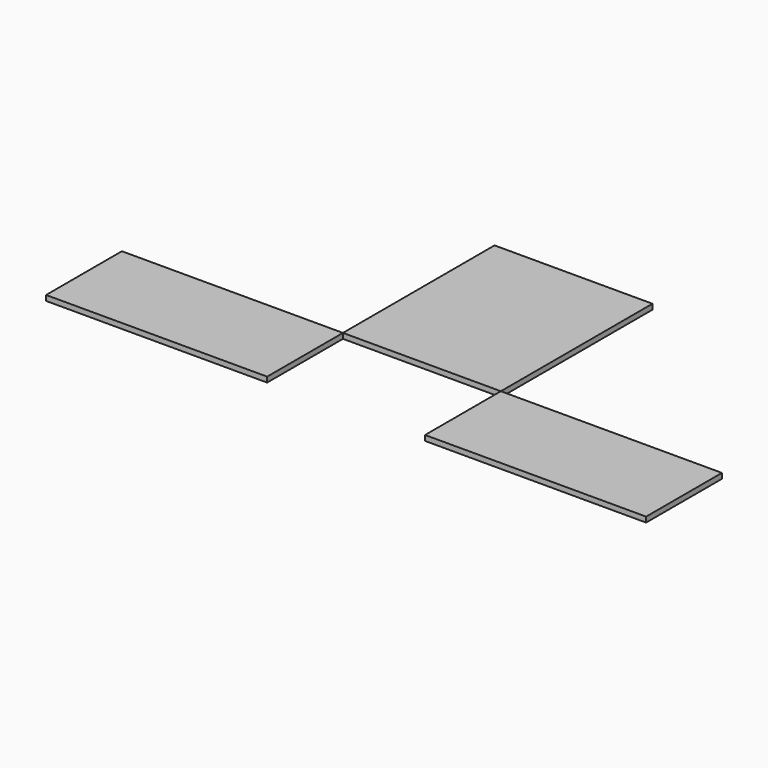
from build123d import *

# Parameters (mm, degrees)
F0_W     = 1066.8
F0_H     = 457.2
F0_W_2   = 762
F0_H_2   = 914.4
F1_DEPTH = 25.4


with BuildPart() as f1:
    # F0 (on Top) → F1 (new body)
    with BuildSketch(Plane.XY):
        with Locations((1295.4, -228.6)):
            Rectangle(F0_W, F0_H)
        with Locations((-533.4, -228.6)):
            Rectangle(F0_W, F0_H)
        with Locations((381, 457.2)):
            Rectangle(F0_W_2, F0_H_2)
    extrude(amount=F1_DEPTH)


solid = f1.part
